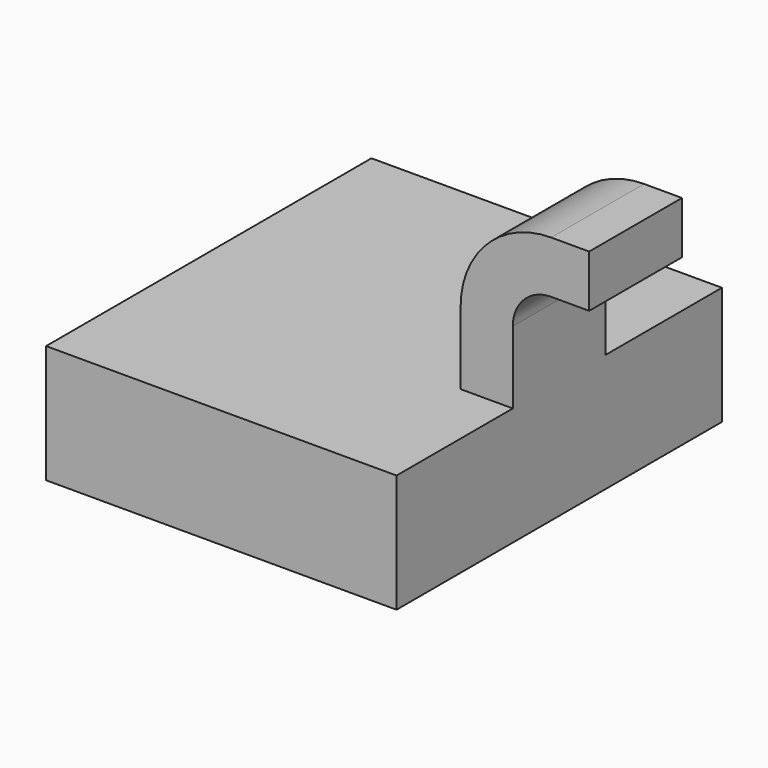
from build123d import *

# Parameters (mm, degrees)
F1_DEPTH = 12.5
F2_DEPTH = 43.8


with BuildPart() as f1:
    # F0 (on Front) → F1 (new body, symmetric)
    with BuildSketch(Plane.XZ):
        with BuildLine():
            Line((26.502635, 28.312043), (26.502635, 12.723355))
            Line((26.502635, 12.723355), (37.745163, 12.723355))
            Line((37.745163, 12.723355), (37.745163, 28.312043))
            ThreePointArc((37.745163, 28.312043), (40.165612, 34.155524), (46.009092, 36.575973))
            Line((46.009092, 36.575973), (54.187037, 36.575973))
            Line((54.187037, 36.575973), (54.187037, 47.8185))
            Line((54.187037, 47.8185), (46.009092, 47.8185))
            ThreePointArc((46.009092, 47.8185), (32.215944, 42.105191), (26.502635, 28.312043))
        make_face()
    extrude(amount=F1_DEPTH, both=True)

    # F0 (on Front) → F2 (join, symmetric)
    with BuildSketch(Plane.XZ):
        Polygon((26.502635, 12.723355), (-37.745163, 12.723355), (-37.745163, -12.723355), (37.745163, -12.723355), (37.745163, 12.723355), align=None)
    extrude(amount=F2_DEPTH, both=True)


solid = f1.part
